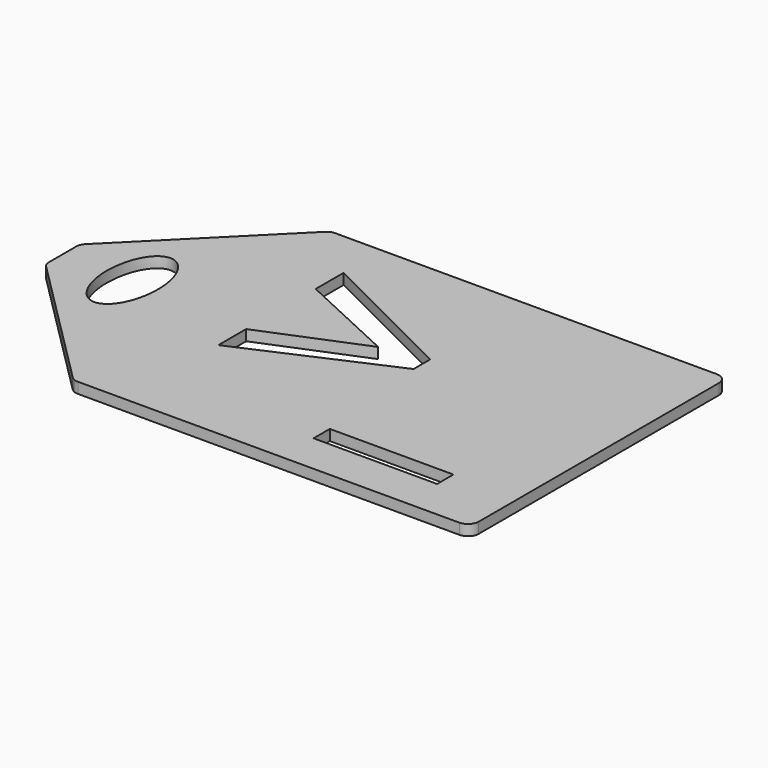
from build123d import *

# Parameters (mm, degrees)
F0_W     = 11.5222578289
F0_H     = 1.8994162322
F1_DEPTH = 1


with BuildPart() as f1:
    # F0 (on Top) → F1 (new body)
    with BuildSketch(Plane.XY):
        with BuildLine():
            ThreePointArc((24, -15), (24.7071067812, -14.7071067812), (25, -14))
            Line((25, -14), (25, 14))
            ThreePointArc((25, 14), (24.7071067812, 14.7071067812), (24, 15))
            Line((24, 15), (-11.5856783083, 15))
            ThreePointArc((-11.5856783083, 15), (-11.7976564855, 14.9772743997), (-12, 14.9101305048))
            Line((-12, 14.9101305048), (-12, 0))
            Line((-12, 0), (-12, -14.9101305048))
            ThreePointArc((-12, -14.9101305048), (-11.7976564855, -14.9772743997), (-11.5856783083, -15))
            Line((-11.5856783083, -15), (24, -15))
        make_face()
        with Locations((13.1538834292, -10.2958114322)):
            Rectangle(F0_W, F0_H, mode=Mode.SUBTRACT)
        Polygon((-7.1997925663, -4.1031941271), (-7.1997925663, -0.8637787721), (2.0717871244, 2.9437268258), (-7.1997925663, 7.2412644654), (-7.1997925663, 10.4936895206), (6.2565740288, 3.7720110732), (6.2565740288, 1.8335657403), align=None, mode=Mode.SUBTRACT)
        with BuildLine():
            ThreePointArc((-12.2929155961, -14.7069762504), (-12.1555831678, -14.8217106857), (-12, -14.9101305048))
            Line((-12, -14.9101305048), (-12, 0))
            Line((-12, 0), (-16.1229410425, 0))
            add(Edge.make_bspline(
                [(-20.8770589575, 0), (-20.8770589575, -4.4353879057), (-18.5, -4.4353879057), (-16.1229410425, -4.4353879057), (-16.1229410425, 0)],
                knots=[1.5707963268, 1.5707963268, 1.5707963268, 3.1415926536, 3.1415926536, 4.7123889804, 4.7123889804, 4.7123889804], degree=2, weights=[1, 0.7071067812, 1, 0.7071067812, 1]))
            Line((-20.8770589575, 0), (-25, 0))
            Line((-25, 0), (-25, -1.5810945587))
            ThreePointArc((-25, -1.5810945587), (-24.9239148467, -1.963692724), (-24.7072372878, -2.2880708092))
            Line((-24.7072372878, -2.2880708092), (-12.2929155961, -14.7069762504))
        make_face()
        with BuildLine():
            Line((-12, 0), (-12, 14.9101305048))
            ThreePointArc((-12, 14.9101305048), (-12.1555831678, 14.8217106857), (-12.2929155961, 14.7069762504))
            Line((-12.2929155961, 14.7069762504), (-24.7072372878, 2.2880708092))
            ThreePointArc((-24.7072372878, 2.2880708092), (-24.9239148467, 1.963692724), (-25, 1.5810945587))
            Line((-25, 1.5810945587), (-25, 0))
            Line((-25, 0), (-20.8770589575, 0))
            add(Edge.make_bspline(
                [(-18.5, 4.4353879057), (-20.8770589575, 4.4353879057), (-20.8770589575, 0)],
                knots=[0, 0, 0, 1.5707963268, 1.5707963268, 1.5707963268], degree=2, weights=[1, 0.7071067812, 1]))
            add(Edge.make_bspline(
                [(-16.1229410425, 0), (-16.1229410425, 4.4353879057), (-18.5, 4.4353879057)],
                knots=[4.7123889804, 4.7123889804, 4.7123889804, 6.2831853072, 6.2831853072, 6.2831853072], degree=2, weights=[1, 0.7071067812, 1]))
            Line((-16.1229410425, 0), (-12, 0))
        make_face()
    extrude(amount=F1_DEPTH)


solid = f1.part
